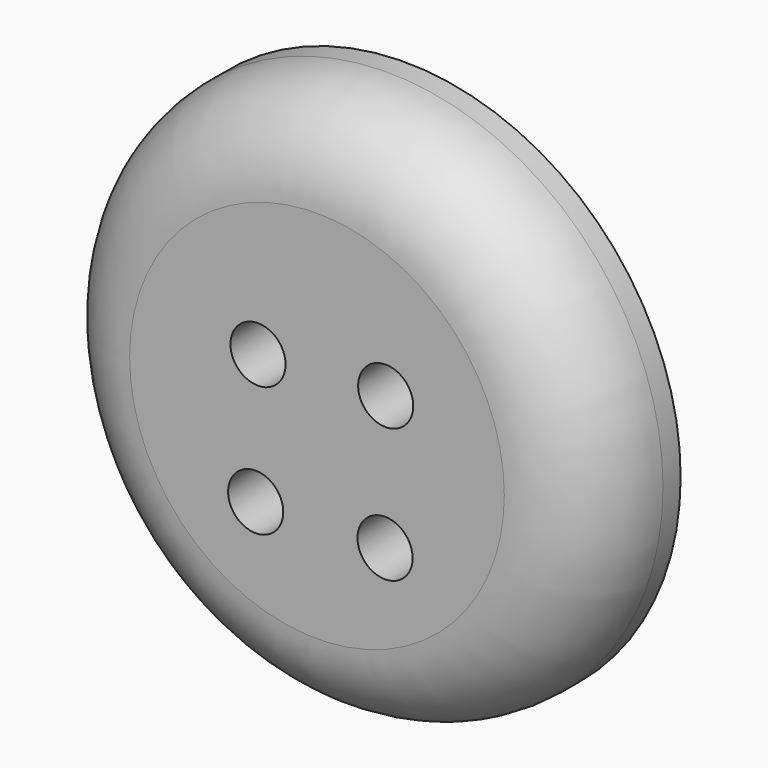
from build123d import *

# Parameters (mm, degrees)
F0_R     = 15.875
F2_DEPTH = 6.35
F3_D     = 3.175
F4_R     = 5.08


with BuildPart() as f2:
    # F0 (on Front) → F2 (new body)
    with BuildSketch(Plane.XZ):
        Circle(F0_R)
    extrude(amount=F2_DEPTH)

    # F3 (through all)
    with Locations(Plane(origin=(0, 0, 0), x_dir=(1, 0, 0), z_dir=(0, 1, 0))):
        with Locations((3.9598953958, -2.8153994276), (-3.3950347352, -2.5255896296), (-3.5310642417, 4.9982398479), (3.925069736, 4.9148391505)):
            Hole(F3_D / 2)

    # F4
    f4_edges = [f2.edges().sort_by_distance(p)[0] for p in [
        (-15.875, -6.35, 0),
    ]]
    fillet(f4_edges, radius=F4_R)


solid = f2.part
